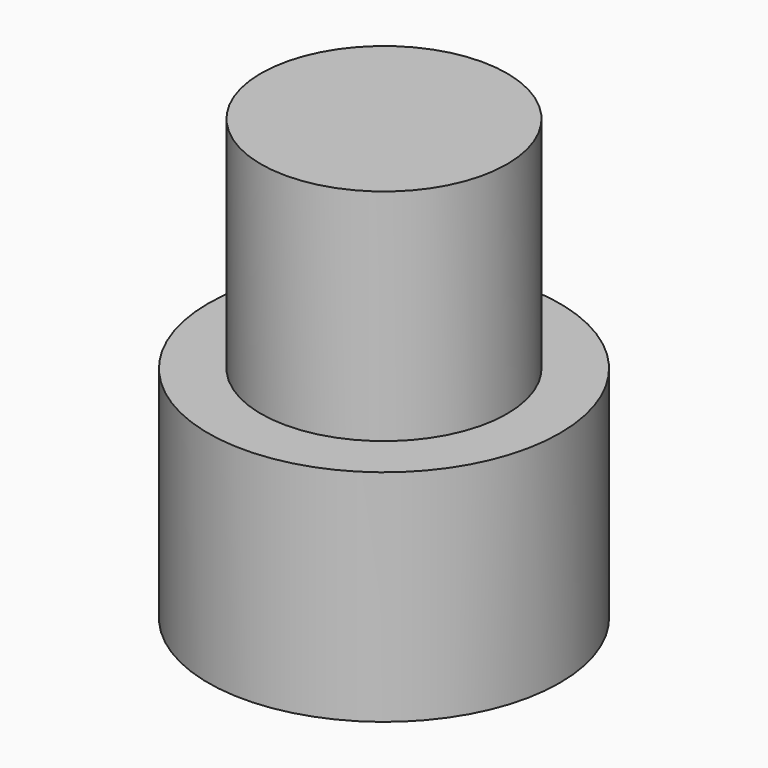
from build123d import *

# Parameters (mm, degrees)
SKETCH020_R     = 4
PAD017_DEPTH    = 5
SKETCH021_R     = 2.8
PAD018_DEPTH    = 5
SKETCH022_R     = 2.5
POCKET004_DEPTH = 1


with BuildPart() as part:
    # Sketch020 → Pad017 (new body)
    with BuildSketch(Plane.XY):
        Circle(SKETCH020_R)
    extrude(amount=PAD017_DEPTH)

    # Sketch021 → Pad018 (join)
    with BuildSketch(Plane.XY.offset(5)):
        Circle(SKETCH021_R)
    extrude(amount=PAD018_DEPTH)

    # Sketch022 → Pocket004 (cut)
    with BuildSketch(Plane(origin=(0, 0, 0), x_dir=(1, 0, 0), z_dir=(0, 0, -1))):
        Circle(SKETCH022_R)
    extrude(amount=-POCKET004_DEPTH, mode=Mode.SUBTRACT)


solid = part.part
